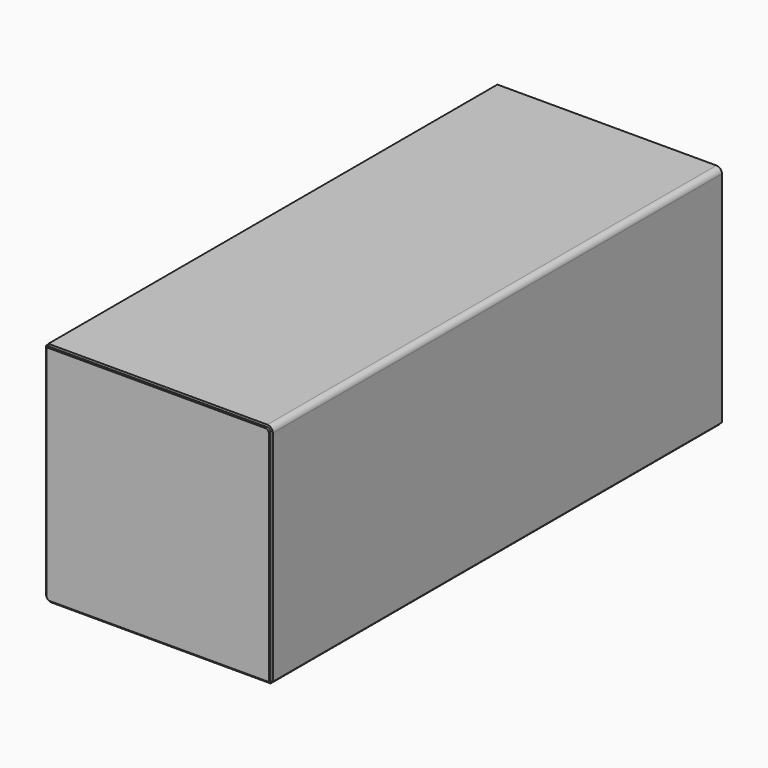
from build123d import *

# Parameters (mm, degrees)
F1_DEPTH = 500
F2_DEPTH = 500
F3_START = 500
F3_DEPTH = 4


with BuildPart() as f1:
    # F0 (on Front) → F1 (new body, symmetric)
    with BuildSketch(Plane.XZ):
        with BuildLine():
            Line((-196, 204), (-196, 200))
            Line((-196, 200), (194, 200))
            ThreePointArc((194, 200), (198.2426406871, 198.2426406871), (200, 194))
            Line((200, 194), (200, -196))
            Line((200, -196), (204, -196))
            Line((204, -196), (204, 194))
            ThreePointArc((204, 194), (201.0710678119, 201.0710678119), (194, 204))
            Line((194, 204), (-196, 204))
        make_face()
    extrude(amount=F1_DEPTH, both=True)


with BuildPart() as f2:
    # F0 (on Front) → F2 (new body, symmetric)
    with BuildSketch(Plane.XZ):
        with BuildLine():
            Line((-196, -190), (-196, 200))
            Line((-196, 200), (-200, 200))
            Line((-200, 200), (-200, -190))
            ThreePointArc((-200, -190), (-197.0710678119, -197.0710678119), (-190, -200))
            Line((-190, -200), (200, -200))
            Line((200, -200), (200, -196))
            Line((200, -196), (-190, -196))
            ThreePointArc((-190, -196), (-194.2426406871, -194.2426406871), (-196, -190))
        make_face()
    extrude(amount=F2_DEPTH, both=True)


with BuildPart() as f3:
    # F0 (on Front) → F3 (new body)
    with BuildSketch(Plane.XZ.offset(F3_START)):
        with BuildLine():
            Line((194, 200), (-196, 200))
            Line((-196, 200), (-196, -190))
            ThreePointArc((-196, -190), (-194.2426406871, -194.2426406871), (-190, -196))
            Line((-190, -196), (200, -196))
            Line((200, -196), (200, 194))
            ThreePointArc((200, 194), (198.2426406871, 198.2426406871), (194, 200))
        make_face()
    extrude(amount=F3_DEPTH)


solid = Compound([f1.part, f2.part, f3.part])
